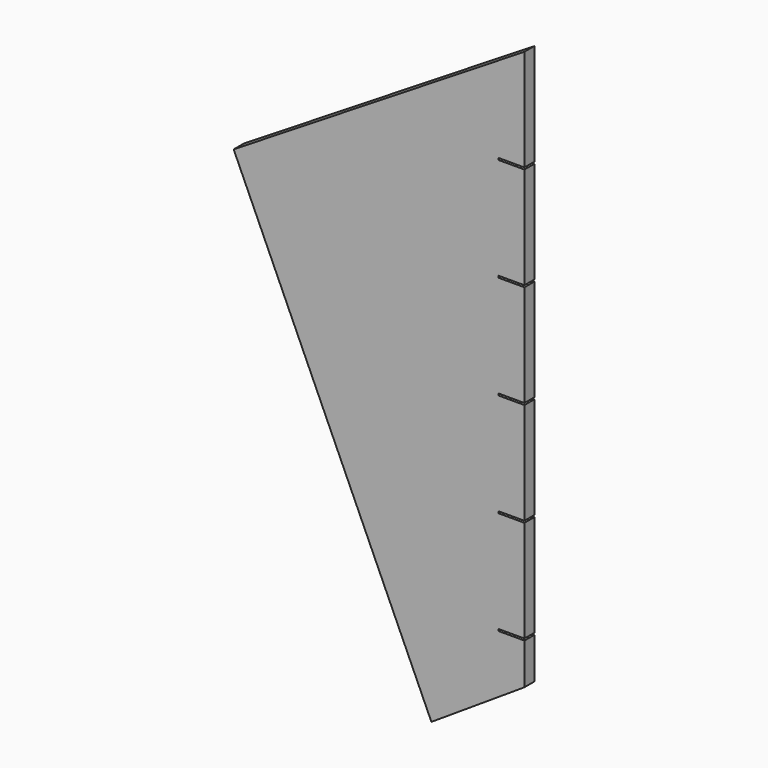
from build123d import *

# Parameters (mm, degrees)
F1_DEPTH = 10


with BuildPart() as f1:
    # F0 (on Front) → F1 (new body)
    with BuildSketch(Plane.XZ):
        Polygon((-75, 0), (0, 48.957288), (0, 82.083), (-21, 82.083), (-21, 83.583), (0, 83.583), (0, 165.666), (-21, 165.666), (-21, 167.166), (0, 167.166), (0, 249.251), (-21, 249.251), (-21, 250.751), (0, 250.751), (0, 332.834), (-21, 332.834), (-21, 334.334), (0, 334.334), (0, 416.417), (-21, 416.417), (-21, 417.917), (0, 417.917), (0, 500), (-234.406625, 354.545004), align=None)
    extrude(amount=F1_DEPTH)


solid = f1.part
